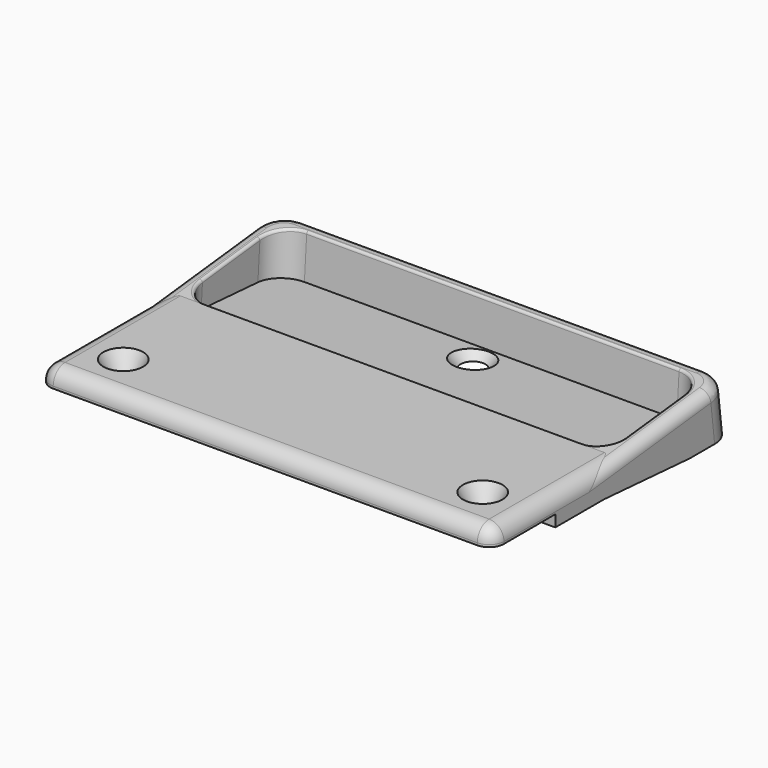
from build123d import *

# Parameters (mm, degrees)
BOX003_W           = 11.4
BOX003_H           = 14
BOX003_DEPTH       = 2
BOX002_W           = 11.4
BOX002_H           = 14
BOX002_DEPTH       = 2
BOX001_W           = 80.03
BOX001_H           = 23.17
BOX001_DEPTH       = 10
BOX001_ROLL_ANGLE  = -4
BOX_W              = 80.83
BOX_H              = 25.18
BOX_DEPTH          = 10
CONE002_ROLL_ANGLE = -4
EXTRUDE_DEPTH      = 85.63
FILLET_R           = 4.88
FILLET001_R        = 2.8
FILLET002_R        = 2
FILLET003_R        = 1
FILLET004_R        = 0.5


with BuildPart() as cone:
    # Cone → Cone (revolve)
    with BuildSketch(Plane(origin=(76.73, 8.9, -3.4), x_dir=(1, 0, 0), z_dir=(0, -1, 0))):
        Polygon((0, 0), (1.8, 0), (3.8, 3.5), (0, 3.5), align=None)
    revolve(axis=Axis((76.73, 8.9, -3.4), (0, 0, 1)))


with BuildPart() as side_screws:
    # Cone001 → Cone001 (revolve)
    with BuildSketch(Plane(origin=(8.9, 8.9, -3.4), x_dir=(1, 0, 0), z_dir=(0, -1, 0))):
        Polygon((0, 0), (1.8, 0), (3.8, 3.5), (0, 3.5), align=None)
    revolve(axis=Axis((8.9, 8.9, -3.4), (0, 0, 1)))

    # Fusion002: union Cone
    add(cone.part)


with BuildPart() as box003:
    # Box003 → Box003 (new body)
    with BuildSketch(Plane(origin=(69.43, 4.8, -3.2), x_dir=(1, 0, 0), z_dir=(0, 0, 1))):
        with Locations((5.7, 7)):
            Rectangle(BOX003_W, BOX003_H)
    extrude(amount=BOX003_DEPTH)


with BuildPart() as mounting_plates:
    # Box002 → Box002 (new body)
    with BuildSketch(Plane(origin=(4.8, 4.8, -3.2), x_dir=(1, 0, 0), z_dir=(0, 0, 1))):
        with Locations((5.7, 7)):
            Rectangle(BOX002_W, BOX002_H)
    extrude(amount=BOX002_DEPTH)

    # Fusion001: union Box003
    add(box003.part)


with BuildPart() as top_pocket:
    # Box001 → Box001 (new body)
    with BuildSketch(Plane.XY):
        with Locations((40.015, 11.585)):
            Rectangle(BOX001_W, BOX001_H)
    extrude(amount=BOX001_DEPTH)


with BuildPart() as top_pocket_1:
    # Box001 roll: moved
    add(top_pocket.part.rotate(Axis((0, 0, 0), (1, 0, 0)), BOX001_ROLL_ANGLE))


with BuildPart() as top_pocket_2:
    # Box001 placement: moved
    add(top_pocket_1.part.moved(Location((2.8, 30.03, -3.9))))


with BuildPart() as bottom_pocket:
    # Box → Box (new body)
    with BuildSketch(Plane(origin=(2.4, 2.4, -11.75), x_dir=(1, 0, 0), z_dir=(0, 0, 1))):
        with Locations((40.415, 12.59)):
            Rectangle(BOX_W, BOX_H)
    extrude(amount=BOX_DEPTH)


with BuildPart() as pocketing:
    # Cone002 → Cone002 (revolve)
    with BuildSketch(Plane.XZ):
        Polygon((0, 0), (2.2, 0), (3.8, 1.8), (0, 1.8), align=None)
    revolve(axis=Axis((0, 0, 0), (0, 0, 1)))


with BuildPart() as pocketing_1:
    # Cone002 roll: moved
    add(pocketing.part.rotate(Axis((0, 0, 0), (1, 0, 0)), CONE002_ROLL_ANGLE))


with BuildPart() as pocketing_2:
    # Cone002 placement: moved
    add(pocketing_1.part.moved(Location((42.815, 48.8, -7))))

    # Fusion: union top_pocket, bottom_pocket
    add(top_pocket_2.part)
    add(bottom_pocket.part)


with BuildPart() as handle_final:
    # Face → Extrude (new body)
    with BuildSketch(Plane(origin=(0, 34.110602, -2.425464), x_dir=(0, 1, 0), z_dir=(-1, 0, 0))):
        Polygon((-34.113019, -2.427169), (-4.112637, -2.425776), (22.101196, -5.316306), (23.284278, 4.397764), (12.525009, 4.397167), (-7.712203, 2.974322), (-19.214219, 2.972989), (-19.204599, 0.777174), (-34.122536, 0.793994), align=None)
    extrude(amount=-EXTRUDE_DEPTH)

    # Cut: cut pocketing
    add(pocketing_2.part, mode=Mode.SUBTRACT)

    # Fusion003: union mounting_plates
    add(mounting_plates.part)

    # Cut001: cut side_screws
    add(side_screws.part, mode=Mode.SUBTRACT)

    # Fillet
    fillet_edges = [handle_final.edges().sort_by_distance(p)[0] for p in [
        (82.83, 53.427863, -1.450522),
        (82.83, 30.167552, -1.932911),
        (2.8, 30.167552, -1.932911),
        (2.8, 53.427863, -1.450522),
        (0, 56.803339, -1.966194),
        (85.63, 56.803339, -1.966194),
    ]]
    fillet(fillet_edges, radius=FILLET_R)

    # Fillet001
    fillet001_edges = [handle_final.edges().sort_by_distance(p)[0] for p in [
        (0, 14.997774, 0.001008),
        (42.815, -0.002417, 0.001705),
        (0, -0.007176, -1.608877),
        (2.4, 2.4, -2.483369),
        (2.4, 27.58, -3.616432),
        (83.23, 27.58, -3.616432),
        (83.23, 2.4, -2.483369),
        (85.63, -0.007176, -1.608877),
        (85.63, 14.997774, 0.001008),
    ]]
    fillet(fillet001_edges, radius=FILLET001_R)

    # Fillet002
    fillet002_edges = [handle_final.edges().sort_by_distance(p)[0] for p in [
        (85.63, 40.679425, 1.178127),
        (85.63, 17.306897, -1.399099),
        (84.200737, 54.790943, 2.734167),
    ]]
    fillet(fillet002_edges, radius=FILLET002_R)

    # Fillet003
    fillet003_edges = [handle_final.edges().sort_by_distance(p)[0] for p in [
        (80.83, 4.8, -2.475),
        (80.83, 18.8, -2.475),
        (16.2, 4.8, -2.475),
        (16.2, 18.8, -2.475),
        (69.43, 4.8, -2.475),
        (69.43, 18.8, -2.475),
        (4.8, 4.8, -2.475),
        (4.8, 18.8, -2.475),
    ]]
    fillet(fillet003_edges, radius=FILLET003_R)

    # Fillet004
    fillet004_edges = [handle_final.edges().sort_by_distance(p)[0] for p in [
        (42.815, 53.712167, 2.615213),
    ]]
    fillet(fillet004_edges, radius=FILLET004_R)


solid = handle_final.part
